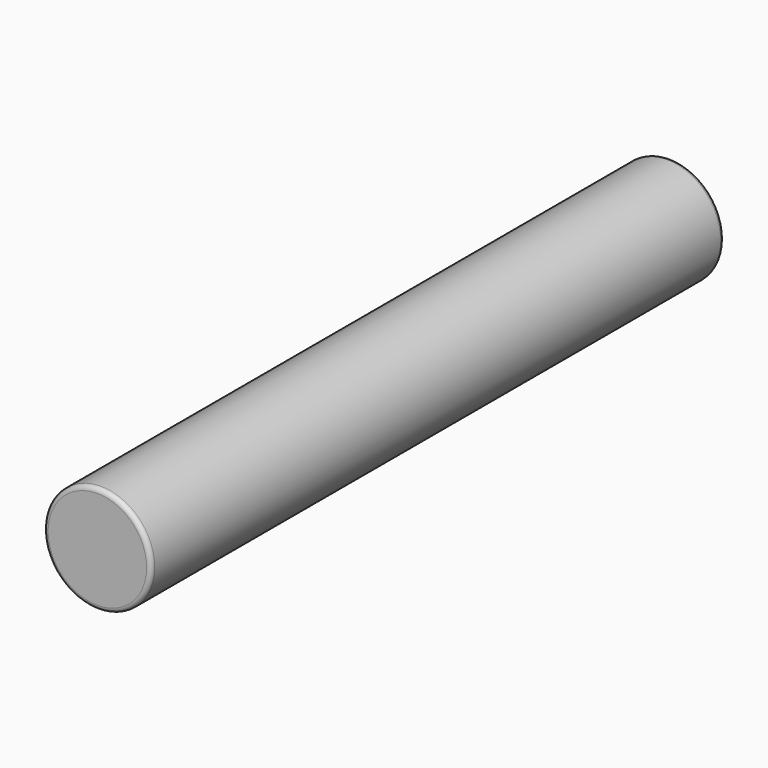
from build123d import *

# Parameters (mm, degrees)
F0_R     = 6
F1_DEPTH = 80
F2_R     = 0.5


with BuildPart() as f1:
    # F0 (on Front) → F1 (new body)
    with BuildSketch(Plane.XZ):
        Circle(F0_R)
        Circle(F0_R)
    extrude(amount=F1_DEPTH)

    # F2
    f2_edges = [f1.edges().sort_by_distance(p)[0] for p in [
        (-6, -80, 0),
        (-6, 0, 0),
    ]]
    fillet(f2_edges, radius=F2_R)


solid = f1.part
